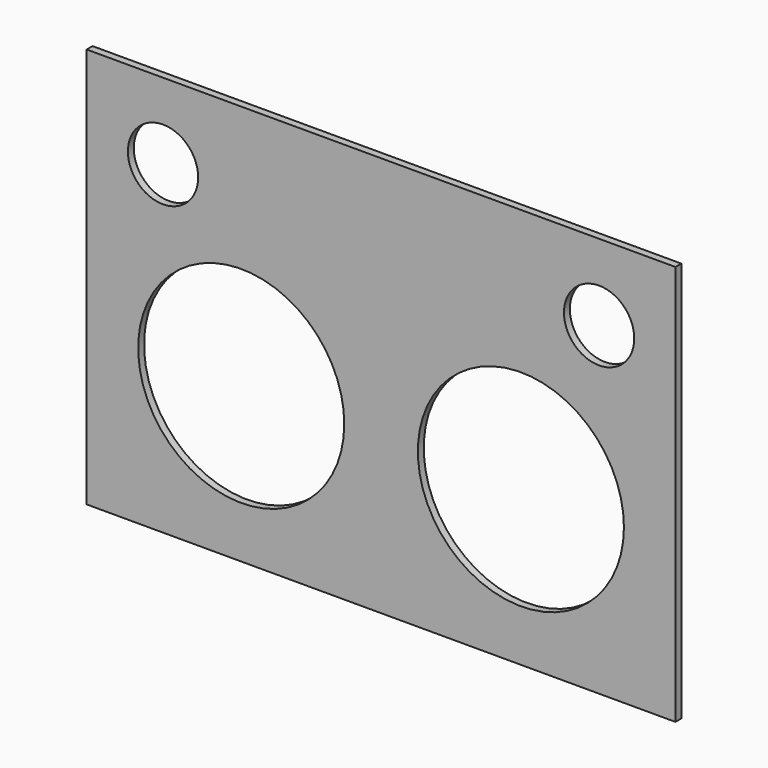
from build123d import *

# Parameters (mm, degrees)
SKETCH_W   = 400
SKETCH_H   = 272.092186
SKETCH_R   = 70
SKETCH_R_2 = 23.875
PAD_DEPTH  = 5


with BuildPart() as part:
    # Sketch → Pad (new body)
    with BuildSketch(Plane.XZ):
        with Locations((0, 31.046093)):
            Rectangle(SKETCH_W, SKETCH_H)
        with Locations((-95, 0)):
            Circle(SKETCH_R, mode=Mode.SUBTRACT)
        with Locations((95, 0)):
            Circle(SKETCH_R, mode=Mode.SUBTRACT)
        with Locations((-148.125, 115.217186)):
            Circle(SKETCH_R_2, mode=Mode.SUBTRACT)
        with Locations((148.125, 115.217186)):
            Circle(SKETCH_R_2, mode=Mode.SUBTRACT)
    extrude(amount=PAD_DEPTH)


solid = part.part
